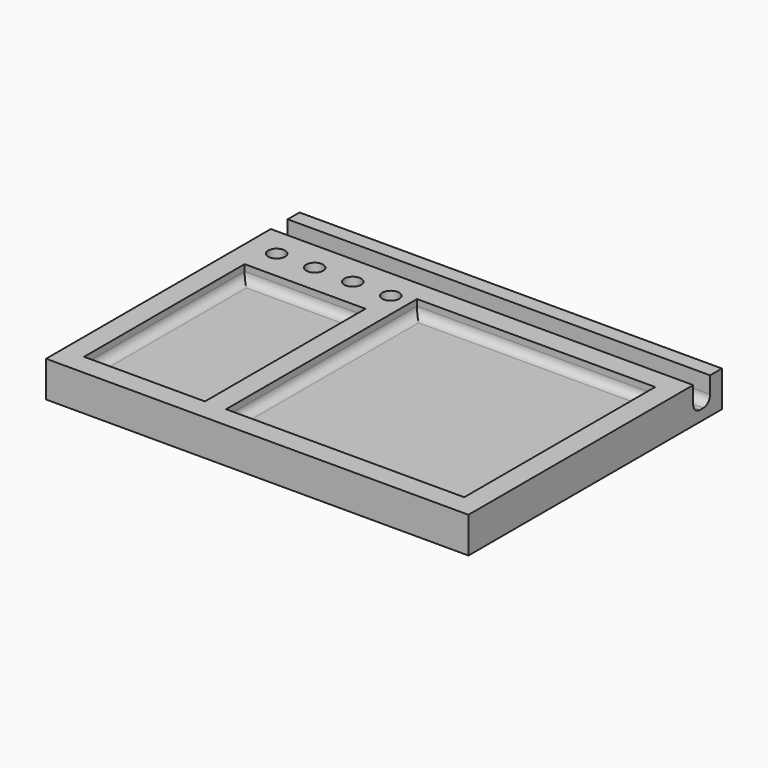
from build123d import *

# Parameters (mm, degrees)
F0_W     = 200
F0_H     = 150
F1_DEPTH = 17
F2_W     = 200
F2_H     = 10
F3_DEPTH = 12
F2_R     = 4
F2_W_2   = 57.217171
F2_H_2   = 95
F2_W_3   = 112.782829
F2_H_3   = 113
F4_DEPTH = 7
F5_R     = 4
F6_R     = 4
F7_R     = 4


with BuildPart() as f1:
    # F0 (on Top) → F1 (new body)
    with BuildSketch(Plane.XY):
        with Locations((100, 75)):
            Rectangle(F0_W, F0_H)
    extrude(amount=F1_DEPTH)

    # F2 (on face) → F3 (cut)
    with BuildSketch(Plane.XY.offset(17)):
        with Locations((100, 138)):
            Rectangle(F2_W, F2_H)
    extrude(amount=-F3_DEPTH, mode=Mode.SUBTRACT)

    # F2 (on face) → F4 (cut)
    with BuildSketch(Plane.XY.offset(17)):
        with Locations((14, 119)):
            Circle(F2_R)
        with Locations((32, 119)):
            Circle(F2_R)
        with Locations((50, 119)):
            Circle(F2_R)
        with Locations((68, 119)):
            Circle(F2_R)
        with Locations((38.608585, 57.5)):
            Rectangle(F2_W_2, F2_H_2)
        with Locations((133.608586, 66.5)):
            Rectangle(F2_W_3, F2_H_3)
    extrude(amount=-F4_DEPTH, mode=Mode.SUBTRACT)

    # F5
    f5_edges = [f1.edges().sort_by_distance(p)[0] for p in [
        (133.608586, 123, 10),
        (77.217171, 66.5, 10),
        (133.608586, 10, 10),
        (190, 66.5, 10),
    ]]
    fillet(f5_edges, radius=F5_R)

    # F6
    f6_edges = [f1.edges().sort_by_distance(p)[0] for p in [
        (100, 143, 5),
        (100, 133, 5),
    ]]
    fillet(f6_edges, radius=F6_R)

    # F7
    f7_edges = [f1.edges().sort_by_distance(p)[0] for p in [
        (10, 57.5, 10),
        (38.608586, 105, 10),
        (67.217171, 57.5, 10),
        (38.608586, 10, 10),
    ]]
    fillet(f7_edges, radius=F7_R)


solid = f1.part
